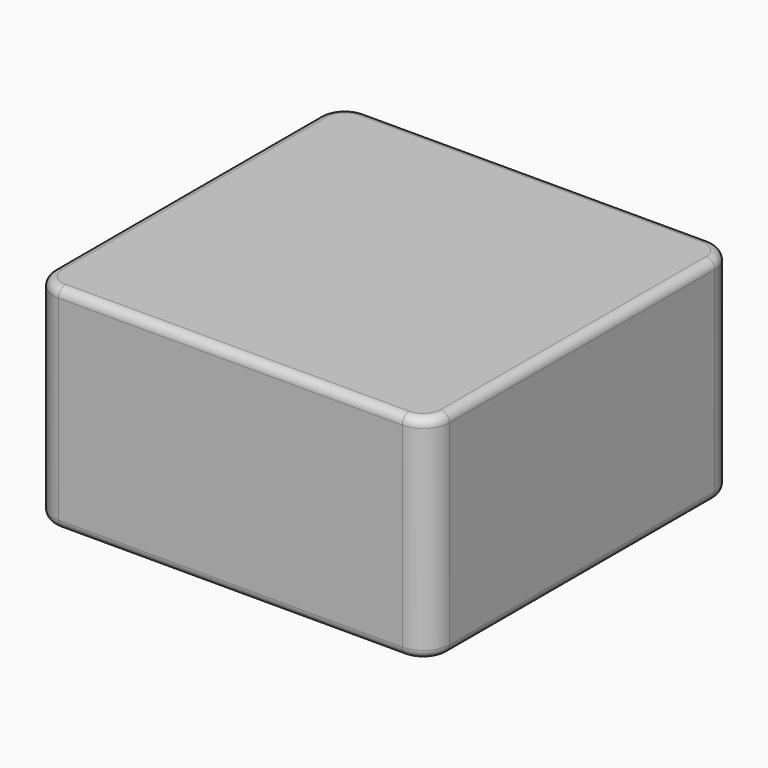
from build123d import *

# Parameters (mm, degrees)
SKETCH_W    = 22.7
SKETCH_H    = 22
PAD_DEPTH   = 12.2
FILLET_R    = 1.5
FILLET001_R = 0.5
FILLET002_R = 0.5


with BuildPart() as part:
    # Sketch → Pad (new body)
    with BuildSketch(Plane.XY):
        Rectangle(SKETCH_W, SKETCH_H)
    extrude(amount=PAD_DEPTH)

    # Fillet
    fillet_edges = [part.edges().sort_by_distance(p)[0] for p in [
        (11.35, -11, 6.1),
        (-11.35, -11, 6.1),
        (11.35, 11, 6.1),
        (-11.35, 11, 6.1),
    ]]
    fillet(fillet_edges, radius=FILLET_R)

    # Fillet001
    fillet001_edges = [part.edges().sort_by_distance(p)[0] for p in [
        (0, -11, 12.2),
    ]]
    fillet(fillet001_edges, radius=FILLET001_R)

    # Fillet002
    fillet002_edges = [part.edges().sort_by_distance(p)[0] for p in [
        (0, 11, 0),
    ]]
    fillet(fillet002_edges, radius=FILLET002_R)


with BuildPart() as part_1:
    # Body placement: moved
    add(part.part.moved(Location((0, 0, 0.4))))


solid = part_1.part
